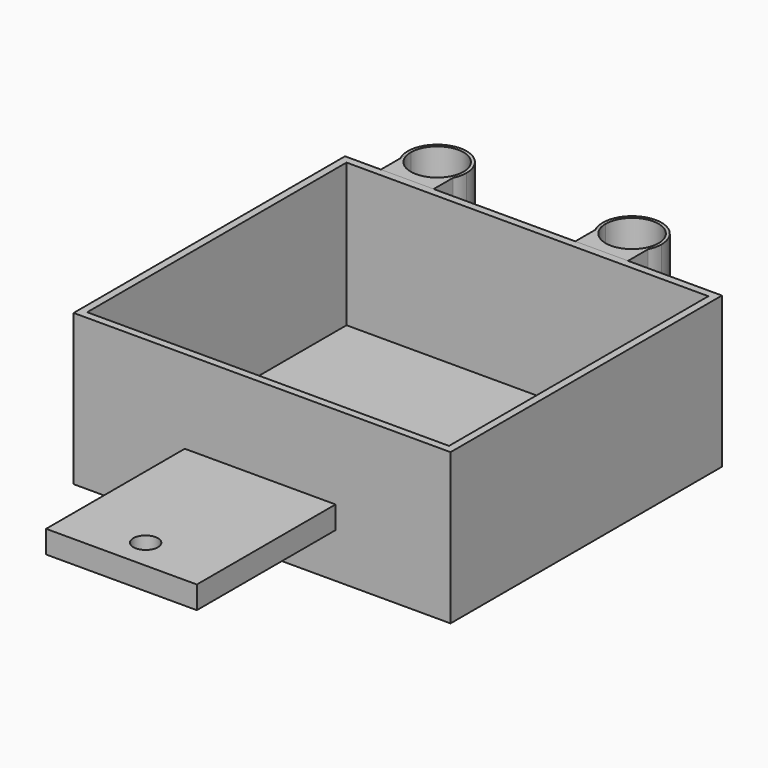
from build123d import *

# Parameters (mm, degrees)
F1_DEPTH = 50.8
F2_DEPTH = 50.8
F3_DEPTH = 50.8
F4_T     = -2.54
F5_W     = 50.8
F5_H     = 7.62
F6_DEPTH = 58.42
F7_R     = 4.1483124282
F8_DEPTH = 25.4


with BuildPart() as f1:
    # F0 (on Top) → F1 (new body)
    with BuildSketch(Plane.XY):
        Polygon((-61.6161076576, 59.5836986993), (-61.6161076576, -54.7163013007), (65.3838923424, -54.7163013007), (65.3838923424, 59.5836986993), (33.7574713075, 59.5836986993), (15.9774713075, 59.5836986993), (-31.741853044, 59.5836986993), (-49.521853044, 59.5836986993), align=None)
    extrude(amount=F1_DEPTH)

    # F4
    f4_openings = [f1.faces().sort_by_distance(p)[0] for p in [
        (1.883892, 2.433699, 50.8),
    ]]
    offset(amount=F4_T, openings=f4_openings)

    # F5 (on face) → F6 (join)
    with BuildSketch(Plane.XZ.offset(54.7163013007)):
        with Locations((1.2418556303, 18.8811359456)):
            Rectangle(F5_W, F5_H)
    extrude(amount=F6_DEPTH)

    # F7 (on face) → F8 (cut)
    with BuildSketch(Plane.XY.offset(22.6911359456)):
        with Locations((1.2418556303, -102.957226336)):
            Circle(F7_R)
    extrude(amount=-F8_DEPTH, mode=Mode.SUBTRACT)


with BuildPart() as f2:
    # F0 (on Top) → F2 (new body)
    with BuildSketch(Plane.XY):
        with BuildLine():
            Line((-49.521853044, 72.1879079938), (-49.521853044, 67.7750018362))
            ThreePointArc((-49.521853044, 67.7750018362), (-40.631853044, 62.2628971245), (-31.741853044, 67.7750018362))
            Line((-31.741853044, 67.7750018362), (-31.741853044, 72.1879079938))
            ThreePointArc((-31.741853044, 72.1879079938), (-40.631853044, 63.2979079938), (-49.521853044, 72.1879079938))
        make_face()
        with BuildLine():
            Line((-49.521853044, 67.7750018362), (-49.521853044, 59.5836986993))
            Line((-49.521853044, 59.5836986993), (-31.741853044, 59.5836986993))
            Line((-31.741853044, 59.5836986993), (-31.741853044, 67.7750018362))
            ThreePointArc((-31.741853044, 67.7750018362), (-40.631853044, 62.2628971245), (-49.521853044, 67.7750018362))
        make_face()
    extrude(amount=F2_DEPTH)


with BuildPart() as f2b:
    # F0 (on Top) → F2, piece 2 (new body)
    with BuildSketch(Plane.XY):
        with BuildLine():
            ThreePointArc((15.9774713075, 68.0060928552), (24.8674713075, 62.4860869444), (33.7574713075, 68.0060928552))
            Line((33.7574713075, 68.0060928552), (33.7574713075, 72.4047869444))
            ThreePointArc((33.7574713075, 72.4047869444), (24.8674713075, 63.5147869444), (15.9774713075, 72.4047869444))
            Line((15.9774713075, 72.4047869444), (15.9774713075, 68.0060928552))
        make_face()
        with BuildLine():
            Line((15.9774713075, 59.5836986993), (33.7574713075, 59.5836986993))
            Line((33.7574713075, 59.5836986993), (33.7574713075, 68.0060928552))
            ThreePointArc((33.7574713075, 68.0060928552), (24.8674713075, 62.4860869444), (15.9774713075, 68.0060928552))
            Line((15.9774713075, 68.0060928552), (15.9774713075, 59.5836986993))
        make_face()
    extrude(amount=F2_DEPTH)


with BuildPart() as f3:
    # F0 (on Top) → F3 (new body)
    with BuildSketch(Plane.XY):
        with BuildLine():
            ThreePointArc((-30.7068421747, 72.1879079938), (-42.8981820281, 81.8507022942), (-49.521853044, 67.7750018362))
            Line((-49.521853044, 67.7750018362), (-49.521853044, 72.1879079938))
            ThreePointArc((-49.521853044, 72.1879079938), (-40.631853044, 81.0779079938), (-31.741853044, 72.1879079938))
            Line((-31.741853044, 72.1879079938), (-31.741853044, 67.7750018362))
            ThreePointArc((-31.741853044, 67.7750018362), (-30.9690587436, 69.9215790098), (-30.7068421747, 72.1879079938))
        make_face()
    extrude(amount=F3_DEPTH)


with BuildPart() as f3b:
    # F0 (on Top) → F3, piece 2 (new body)
    with BuildSketch(Plane.XY):
        with BuildLine():
            Line((33.7574713075, 72.4047869444), (33.7574713075, 68.0060928552))
            ThreePointArc((33.7574713075, 68.0060928552), (34.5255728987, 70.1460963182), (34.7861713075, 72.4047869444))
            ThreePointArc((34.7861713075, 72.4047869444), (22.6087806813, 82.0628885355), (15.9774713075, 68.0060928552))
            Line((15.9774713075, 68.0060928552), (15.9774713075, 72.4047869444))
            ThreePointArc((15.9774713075, 72.4047869444), (24.8674713075, 81.2947869444), (33.7574713075, 72.4047869444))
        make_face()
    extrude(amount=F3_DEPTH)


solid = Compound([f1.part, f2.part, f2b.part, f3.part, f3b.part])
